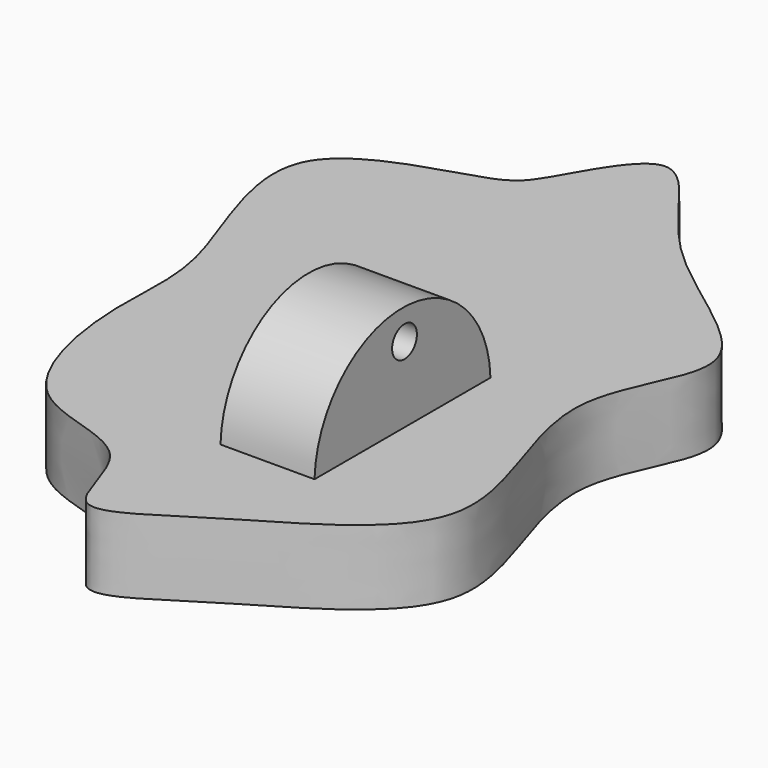
from build123d import *

# Parameters (mm, degrees)
F0_R           = 81.1336812915
F1_DEPTH       = 69.342
F3_DEPTH       = 54.864
F5_D           = 21.59
F5_CBORE_D     = 22.86
F5_CBORE_DEPTH = 209.55


with BuildPart() as f1:
    # F0 (on Right) → F1 (new body)
    with BuildSketch(Plane.YZ):
        with Locations((-85.6429338455, 52.0674623549)):
            Circle(F0_R)
    extrude(amount=F1_DEPTH)

    # F2 (on Top) → F3 (join)
    with BuildSketch(Plane.XY):
        with BuildLine():
            add(Edge.make_bspline(
                [(-86.4447653294, 189.4149035215), (-111.6623027354, 179.6712323279), (-227.4054472197, 158.1149458921), (-143.2739960259, 3.6278419253), (-159.5339905629, -67.6706664975), (-135.0161860693, -199.7672086572), (-28.8160898724, -196.0734050181), (-25.3430529957, -297.6886603908), (57.3597939232, -233.1965122554), (205.6586996768, -162.5664995648), (97.2041974943, 0.4832615369), (197.6684761966, 102.7389586736), (43.0333191672, 173.9723938457), (-14.6071974578, 300.631651393), (-60.9079426691, 207.8867068181), (-71.8609032785, 195.0498850136), (-86.4447653294, 189.4149035215)],
                knots=[0, 0, 0, 0, 0.0756237363, 0.1595826322, 0.2260402841, 0.3029917876, 0.3693162704, 0.4263987914, 0.4897569163, 0.5758611747, 0.6652768165, 0.7367968624, 0.8237333884, 0.8975007561, 0.9562651134, 1, 1, 1, 1], degree=3))
        make_face()
    extrude(amount=F3_DEPTH)

    # F5 (through all)
    with Locations(Plane(origin=(0, 0, 0), x_dir=(0, -1, 0), z_dir=(-1, 0, 0))):
        with Locations((83.7837606668, 110.5496510863)):
            CounterBoreHole(F5_D / 2, F5_CBORE_D / 2, F5_CBORE_DEPTH)


solid = f1.part
